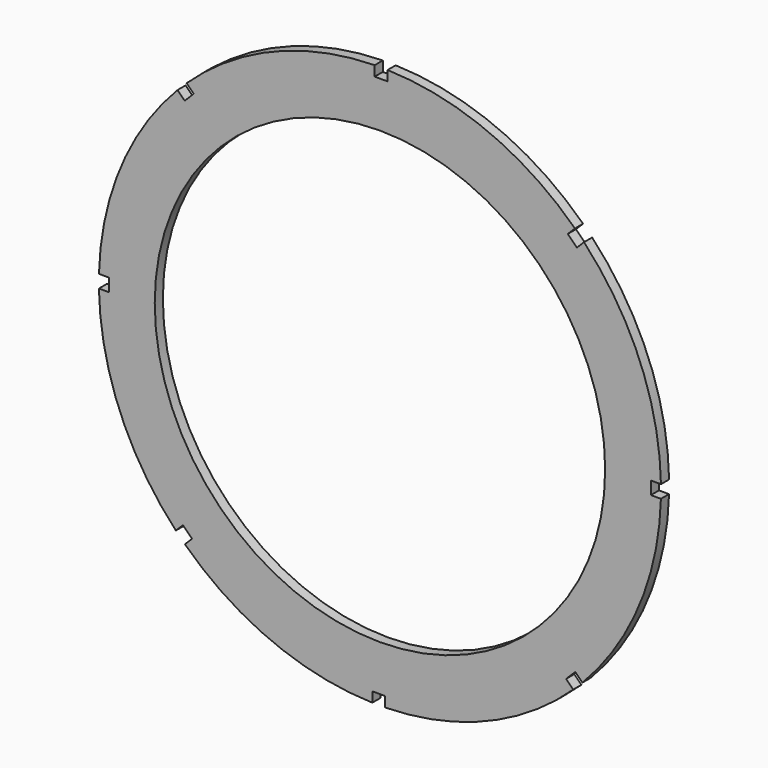
from build123d import *

# Parameters (mm, degrees)
F0_R     = 66.5
F1_DEPTH = 3


with BuildPart() as f1:
    # F0 (on Front) → F1 (new body)
    with BuildSketch(Plane.XZ):
        with BuildLine():
            Line((80, 1.55), (82.985526, 1.55))
            ThreePointArc((82.985526, 1.55), (76.815293, 31.439), (60.259285, 57.077304))
            Line((60.259285, 57.077304), (58.159533, 54.977552))
            Line((58.159533, 54.977552), (55.472527, 57.664558))
            Line((55.472527, 57.664558), (57.583613, 59.775644))
            ThreePointArc((57.583613, 59.775644), (32.085885, 76.547345), (2.25, 82.969497))
            Line((2.25, 82.969497), (2.25, 80))
            Line((2.25, 80), (-1.55, 80))
            Line((-1.55, 80), (-1.55, 82.985526))
            ThreePointArc((-1.55, 82.985526), (-31.439, 76.815293), (-57.077304, 60.259285))
            Line((-57.077304, 60.259285), (-54.977552, 58.159533))
            Line((-54.977552, 58.159533), (-57.664558, 55.472527))
            Line((-57.664558, 55.472527), (-59.775644, 57.583613))
            ThreePointArc((-59.775644, 57.583613), (-76.547345, 32.085885), (-82.969497, 2.25))
            Line((-82.969497, 2.25), (-80, 2.25))
            Line((-80, 2.25), (-80, -1.55))
            Line((-80, -1.55), (-82.985526, -1.55))
            ThreePointArc((-82.985526, -1.55), (-76.815293, -31.439), (-60.259285, -57.077304))
            Line((-60.259285, -57.077304), (-58.159533, -54.977552))
            Line((-58.159533, -54.977552), (-55.472527, -57.664558))
            Line((-55.472527, -57.664558), (-57.583613, -59.775644))
            ThreePointArc((-57.583613, -59.775644), (-32.085885, -76.547345), (-2.25, -82.969497))
            Line((-2.25, -82.969497), (-2.25, -80))
            Line((-2.25, -80), (1.55, -80))
            Line((1.55, -80), (1.55, -82.985526))
            ThreePointArc((1.55, -82.985526), (31.439, -76.815293), (57.077304, -60.259285))
            Line((57.077304, -60.259285), (54.977552, -58.159533))
            Line((54.977552, -58.159533), (57.664558, -55.472527))
            Line((57.664558, -55.472527), (59.775644, -57.583613))
            ThreePointArc((59.775644, -57.583613), (76.547345, -32.085885), (82.969497, -2.25))
            Line((82.969497, -2.25), (80, -2.25))
            Line((80, -2.25), (80, 1.55))
        make_face()
        Circle(F0_R, mode=Mode.SUBTRACT)
    extrude(amount=F1_DEPTH)


solid = f1.part
